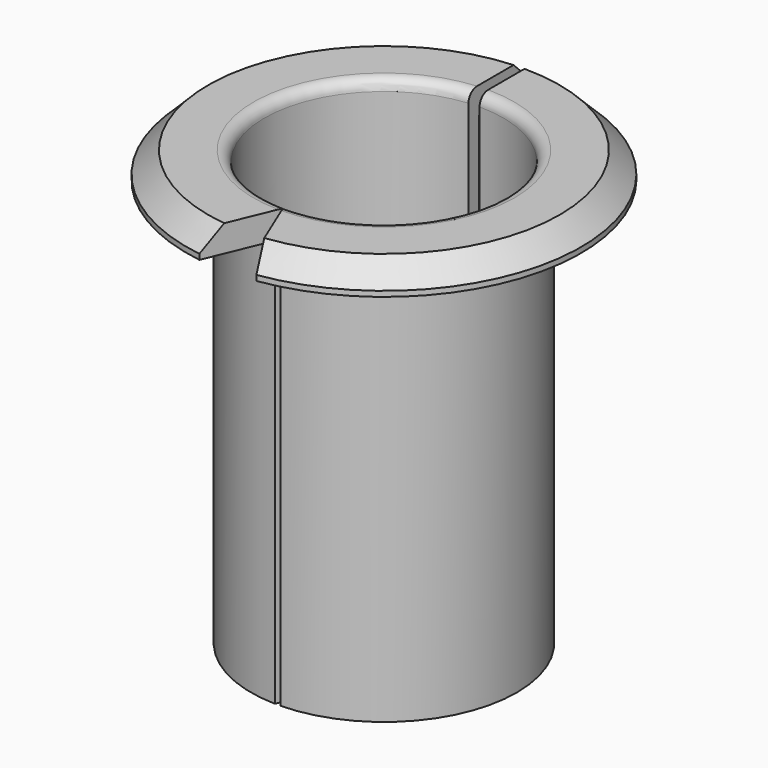
from build123d import *

# Parameters (mm, degrees)
F0_R     = 12.425
F0_R_2   = 11.175
F1_DEPTH = 38.1
F0_R_3   = 18.425
F2_DEPTH = 2.5
F3_SIZE  = 2
F4_R     = 1
F5_W     = 26.7045460641
F5_H     = 56.1363650486
F6_DEPTH = 1
F8_DEPTH = 50


with BuildPart() as f1:
    # F0 (on Top) → F1 (new body)
    with BuildSketch(Plane.XY):
        Circle(F0_R)
        Circle(F0_R_2, mode=Mode.SUBTRACT)
    extrude(amount=-F1_DEPTH)

    # F0 (on Top) → F2 (join)
    with BuildSketch(Plane.XY):
        Circle(F0_R_3)
        Circle(F0_R, mode=Mode.SUBTRACT)
        Circle(F0_R)
        Circle(F0_R_2, mode=Mode.SUBTRACT)
    extrude(amount=F2_DEPTH)

    # F3
    f3_edges = [f1.edges().sort_by_distance(p)[0] for p in [
        (-18.425, 0, 2.5),
    ]]
    chamfer(f3_edges, length=F3_SIZE)

    # F4
    f4_edges = [f1.edges().sort_by_distance(p)[0] for p in [
        (-11.175, 0, 2.5),
    ]]
    fillet(f4_edges, radius=F4_R)

    # F5 (on Right) → F6 (cut)
    with BuildSketch(Plane.YZ):
        with Locations((13.3522730321, -17.5000005402)):
            Rectangle(F5_W, F5_H)
    extrude(amount=-F6_DEPTH, mode=Mode.SUBTRACT)

    # F7 (on Top) → F8 (cut, symmetric)
    with BuildSketch(Plane.XY):
        Polygon((5.7434663265, -25.6659543005), (0, -11.8), (-5.7434663265, -25.6659543005), align=None)
    extrude(amount=F8_DEPTH, both=True, mode=Mode.SUBTRACT)


solid = f1.part
